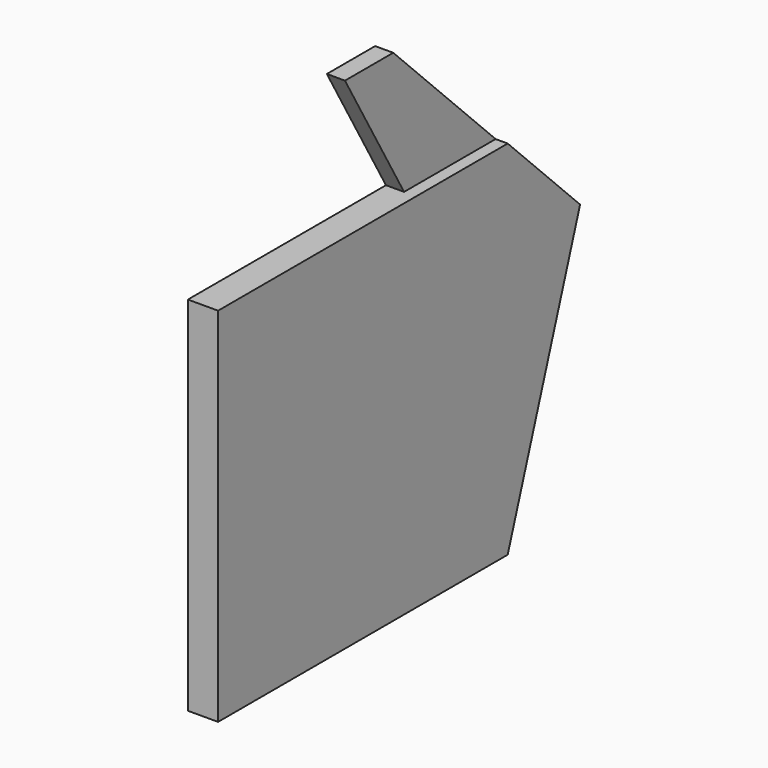
from build123d import *

# Parameters (mm, degrees)
F1_DEPTH = 12.7
F2_DEPTH = 7.62


with BuildPart() as f1:
    # F0 (on Right) → F1 (new body)
    with BuildSketch(Plane.YZ):
        Polygon((-23.564721, 15.782364), (-23.564721, 53.882364), (-71.737738, 53.882364), (-175.964721, 53.882364), (-175.964721, -98.517636), (-23.564721, -98.517636), align=None)
        Polygon((14.535279, 15.782364), (-23.564721, 53.882364), (-23.564721, 15.782364), align=None)
        Polygon((14.535279, 15.782364), (-23.564721, 15.782364), (-23.564721, -98.517636), align=None)
    extrude(amount=F1_DEPTH)

    # F0 (on Right) → F2 (join)
    with BuildSketch(Plane.YZ):
        Polygon((-71.737738, 53.882364), (-23.564721, 53.882364), (-77.446257, 107.763901), (-102.846257, 107.763901), align=None)
    extrude(amount=F2_DEPTH)


solid = f1.part
